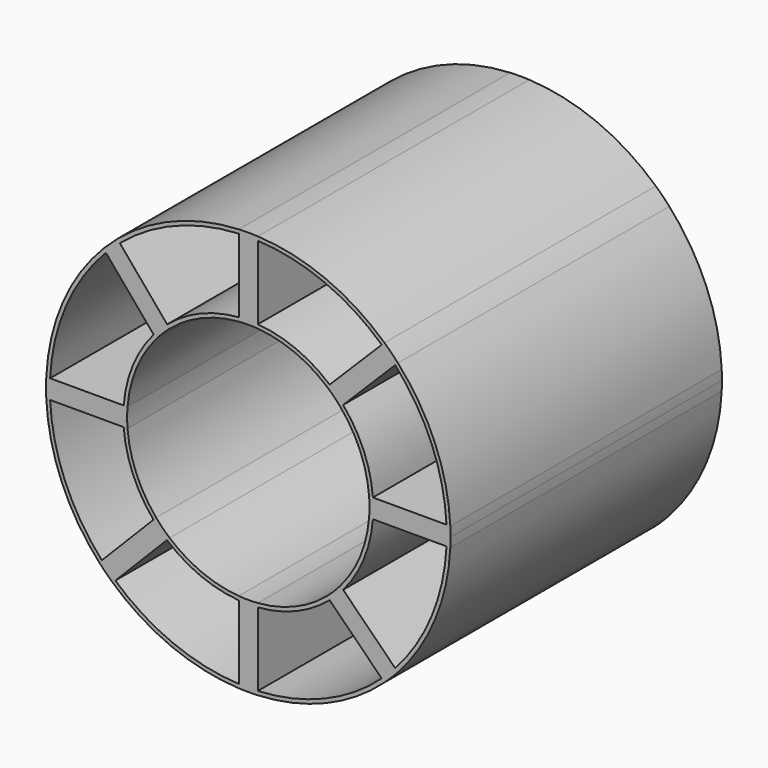
from build123d import *

# Parameters (mm, degrees)
F1_DEPTH = 44.45


with BuildPart() as f1:
    # F0 (on Front) → F1 (new body)
    with BuildSketch(Plane.XZ):
        with BuildLine():
            Line((-1.2490308724, 15.8257874016), (-1.2490308724, 16.3272945364))
            ThreePointArc((-1.2490308724, 16.3272945364), (-6.2468599625, 15.1366233226), (-10.6297427896, 12.455889901))
            Line((-10.6297427896, 12.455889901), (-10.3074871892, 12.0735799515))
            ThreePointArc((-10.3074871892, 12.0735799515), (-6.0751989773, 14.6665463687), (-1.2490308724, 15.8257874016))
        make_face()
        with BuildLine():
            Line((1.2490308724, 15.8257874016), (1.2490308724, 16.3272945364))
            ThreePointArc((1.2490308724, 16.3272945364), (0, 16.375), (-1.2490308724, 16.3272945364))
            Line((-1.2490308724, 16.3272945364), (-1.2490308724, 15.8257874016))
            ThreePointArc((-1.2490308724, 15.8257874016), (0, 15.875), (1.2490308724, 15.8257874016))
        make_face()
        with BuildLine():
            Line((-10.3074871892, 12.0735799515), (-10.6297427896, 12.455889901))
            ThreePointArc((-10.6297427896, 12.455889901), (-11.5487712868, 11.6088977411), (-12.4005243169, 10.6942798573))
            Line((-12.4005243169, 10.6942798573), (-12.0738596244, 10.3071595879))
            ThreePointArc((-12.0738596244, 10.3071595879), (-11.2254724409, 11.2251678597), (-10.3074871892, 12.0735799515))
        make_face()
        with BuildLine():
            Line((-12.0738596244, 10.3071595879), (-12.4005243169, 10.6942798573))
            ThreePointArc((-12.4005243169, 10.6942798573), (-15.120353042, 6.2861394262), (-16.3272945364, 1.2490308724))
            Line((-16.3272945364, 1.2490308724), (-15.8257874016, 1.2490308724))
            ThreePointArc((-15.8257874016, 1.2490308724), (-14.6666287878, 6.075), (-12.0738596244, 10.3071595879))
        make_face()
        with BuildLine():
            Line((-15.8257874016, 1.2490308724), (-16.3272945364, 1.2490308724))
            ThreePointArc((-16.3272945364, 1.2490308724), (-16.375, 0), (-16.3272945364, -1.2490308724))
            Line((-16.3272945364, -1.2490308724), (-15.8257874016, -1.2490308724))
            ThreePointArc((-15.8257874016, -1.2490308724), (-15.875, 0), (-15.8257874016, 1.2490308724))
        make_face()
        with BuildLine():
            ThreePointArc((-16.3272945364, -1.2490308724), (-15.1277540364, -6.2683078112), (-12.42570743, -10.6650091357))
            Line((-12.42570743, -10.6650091357), (-12.0738596244, -10.3071595879))
            ThreePointArc((-12.0738596244, -10.3071595879), (-14.6666287878, -6.075), (-15.8257874016, -1.2490308724))
            Line((-15.8257874016, -1.2490308724), (-16.3272945364, -1.2490308724))
        make_face()
        with BuildLine():
            Line((10.3071595879, 12.0738596244), (10.6619551336, 12.4283280343))
            ThreePointArc((10.6619551336, 12.4283280343), (6.2664489031, 15.1285241562), (1.2490308724, 16.3272945364))
            Line((1.2490308724, 16.3272945364), (1.2490308724, 15.8257874016))
            ThreePointArc((1.2490308724, 15.8257874016), (6.075, 14.6666287878), (10.3071595879, 12.0738596244))
        make_face()
        with BuildLine():
            Line((12.0735799515, 10.3074871892), (12.4283478304, 10.6619320579))
            ThreePointArc((12.4283478304, 10.6619320579), (11.5788842912, 11.5788627927), (10.6619551336, 12.4283280343))
            Line((10.6619551336, 12.4283280343), (10.3071595879, 12.0738596244))
            ThreePointArc((10.3071595879, 12.0738596244), (11.2251678597, 11.2254724409), (12.0735799515, 10.3074871892))
        make_face()
        with BuildLine():
            Line((15.8257874016, 1.2490308724), (16.3272945364, 1.2490308724))
            ThreePointArc((16.3272945364, 1.2490308724), (15.1285299737, 6.2664348585), (12.4283478304, 10.6619320579))
            Line((12.4283478304, 10.6619320579), (12.0735799515, 10.3074871892))
            ThreePointArc((12.0735799515, 10.3074871892), (14.6665463687, 6.0751989773), (15.8257874016, 1.2490308724))
        make_face()
        with BuildLine():
            ThreePointArc((16.375, 0), (16.3630692878, 0.6249707856), (16.3272945364, 1.2490308724))
            Line((16.3272945364, 1.2490308724), (15.8257874016, 1.2490308724))
            ThreePointArc((15.8257874016, 1.2490308724), (15.8626920792, 0.625), (15.875, 0))
            ThreePointArc((15.875, 0), (15.8626920792, -0.625), (15.8257874016, -1.2490308724))
            Line((15.8257874016, -1.2490308724), (16.3272945364, -1.2490308724))
            ThreePointArc((16.3272945364, -1.2490308724), (16.3630692878, -0.6249707856), (16.375, 0))
        make_face()
        with BuildLine():
            ThreePointArc((12.4280217247, -10.6623121793), (15.1284341411, -6.2666662141), (16.3272945364, -1.2490308724))
            Line((16.3272945364, -1.2490308724), (15.8257874016, -1.2490308724))
            ThreePointArc((15.8257874016, -1.2490308724), (14.6665463687, -6.0751989773), (12.0735799515, -10.3074871892))
            Line((12.0735799515, -10.3074871892), (12.4280217247, -10.6623121793))
        make_face()
        with BuildLine():
            ThreePointArc((10.6615750043, -12.4286541278), (11.5785301419, -11.5792169318), (12.4280217247, -10.6623121793))
            Line((12.4280217247, -10.6623121793), (12.0735799515, -10.3074871892))
            ThreePointArc((12.0735799515, -10.3074871892), (11.2251678597, -11.2254724409), (10.3071595879, -12.0738596244))
            Line((10.3071595879, -12.0738596244), (10.6615750043, -12.4286541278))
        make_face()
        with BuildLine():
            ThreePointArc((1.2490308724, -16.3272945364), (6.266217547, -15.1286199851), (10.6615750043, -12.4286541278))
            Line((10.6615750043, -12.4286541278), (10.3071595879, -12.0738596244))
            ThreePointArc((10.3071595879, -12.0738596244), (6.075, -14.6666287878), (1.2490308724, -15.8257874016))
            Line((1.2490308724, -15.8257874016), (1.2490308724, -16.3272945364))
        make_face()
        with BuildLine():
            ThreePointArc((-1.2490308724, -16.3272945364), (0, -16.375), (1.2490308724, -16.3272945364))
            Line((1.2490308724, -16.3272945364), (1.2490308724, -15.8257874016))
            ThreePointArc((1.2490308724, -15.8257874016), (0, -15.875), (-1.2490308724, -15.8257874016))
            Line((-1.2490308724, -15.8257874016), (-1.2490308724, -16.3272945364))
        make_face()
        with BuildLine():
            ThreePointArc((-10.6588794621, -12.4309659163), (-6.2645771056, -15.1292993456), (-1.2490308724, -16.3272945364))
            Line((-1.2490308724, -16.3272945364), (-1.2490308724, -15.8257874016))
            ThreePointArc((-1.2490308724, -15.8257874016), (-6.0751989773, -14.6665463687), (-10.3074871892, -12.0735799515))
            Line((-10.3074871892, -12.0735799515), (-10.6588794621, -12.4309659163))
        make_face()
        with BuildLine():
            ThreePointArc((-12.42570743, -10.6650091357), (-11.5760178314, -11.5817285483), (-10.6588794621, -12.4309659163))
            Line((-10.6588794621, -12.4309659163), (-10.3074871892, -12.0735799515))
            ThreePointArc((-10.3074871892, -12.0735799515), (-11.2254724409, -11.2251678597), (-12.0738596244, -10.3071595879))
            Line((-12.0738596244, -10.3071595879), (-12.42570743, -10.6650091357))
        make_face()
        with BuildLine():
            Line((-16.3272945364, 1.2490308724), (-25.9699811683, 1.2490308724))
            ThreePointArc((-25.9699811683, 1.2490308724), (-26, 0), (-25.9699811683, -1.2490308724))
            Line((-25.9699811683, -1.2490308724), (-16.3272945364, -1.2490308724))
            ThreePointArc((-16.3272945364, -1.2490308724), (-16.375, 0), (-16.3272945364, 1.2490308724))
        make_face()
        with BuildLine():
            Line((-10.6297427896, 12.455889901), (-16.8331168629, 19.8153015793))
            ThreePointArc((-16.8331168629, 19.8153015793), (-17.7655269326, 18.9838366198), (-18.6569206444, 18.1085425164))
            Line((-18.6569206444, 18.1085425164), (-12.4005243169, 10.6942798573))
            ThreePointArc((-12.4005243169, 10.6942798573), (-11.5487712868, 11.6088977411), (-10.6297427896, 12.455889901))
        make_face()
        with BuildLine():
            Line((1.2490308724, 16.3272945364), (1.2490308724, 25.9699811683))
            ThreePointArc((1.2490308724, 25.9699811683), (0, 26), (-1.2490308724, 25.9699811683))
            Line((-1.2490308724, 25.9699811683), (-1.2490308724, 16.3272945364))
            ThreePointArc((-1.2490308724, 16.3272945364), (0, 16.375), (1.2490308724, 16.3272945364))
        make_face()
        with BuildLine():
            Line((12.4283478304, 10.6619320579), (19.2497129633, 17.4770864514))
            ThreePointArc((19.2497129633, 17.4770864514), (18.3879155416, 18.381636544), (17.4836598335, 19.2437428487))
            Line((17.4836598335, 19.2437428487), (10.6619551336, 12.4283280343))
            ThreePointArc((10.6619551336, 12.4283280343), (11.5788842912, 11.5788627927), (12.4283478304, 10.6619320579))
        make_face()
        with BuildLine():
            ThreePointArc((26, 0), (25.9924942087, 0.624695776), (25.9699811683, 1.2490308724))
            Line((25.9699811683, 1.2490308724), (16.3272945364, 1.2490308724))
            ThreePointArc((16.3272945364, 1.2490308724), (16.3630692878, 0.6249707856), (16.375, 0))
            ThreePointArc((16.375, 0), (16.3630692878, -0.6249707856), (16.3272945364, -1.2490308724))
            Line((16.3272945364, -1.2490308724), (25.9699811683, -1.2490308724))
            ThreePointArc((25.9699811683, -1.2490308724), (25.9924942087, -0.624695776), (26, 0))
        make_face()
        with BuildLine():
            ThreePointArc((17.4761736065, -19.2505417087), (18.3807645643, -18.3887871822), (19.2429137476, -17.4845723568))
            Line((19.2429137476, -17.4845723568), (12.4280217247, -10.6623121793))
            ThreePointArc((12.4280217247, -10.6623121793), (11.5785301419, -11.5792169318), (10.6615750043, -12.4286541278))
            Line((10.6615750043, -12.4286541278), (17.4761736065, -19.2505417087))
        make_face()
        with BuildLine():
            ThreePointArc((-1.2490308724, -25.9699811683), (0, -26), (1.2490308724, -25.9699811683))
            Line((1.2490308724, -25.9699811683), (1.2490308724, -16.3272945364))
            ThreePointArc((1.2490308724, -16.3272945364), (0, -16.375), (-1.2490308724, -16.3272945364))
            Line((-1.2490308724, -16.3272945364), (-1.2490308724, -25.9699811683))
        make_face()
        with BuildLine():
            ThreePointArc((-19.189026681, -17.5436955923), (-18.3241000354, -18.4452529907), (-17.4168625049, -19.3042197585))
            Line((-17.4168625049, -19.3042197585), (-10.6588794621, -12.4309659163))
            ThreePointArc((-10.6588794621, -12.4309659163), (-11.5760178314, -11.5817285483), (-12.42570743, -10.6650091357))
            Line((-12.42570743, -10.6650091357), (-19.189026681, -17.5436955923))
        make_face()
        with BuildLine():
            ThreePointArc((-26.4705481976, -1.2490308724), (-24.4655644109, -10.1826400337), (-19.540065228, -17.9007220772))
            Line((-19.540065228, -17.9007220772), (-19.189026681, -17.5436955923))
            ThreePointArc((-19.189026681, -17.5436955923), (-24.0044375495, -9.9893432183), (-25.9699811683, -1.2490308724))
            Line((-25.9699811683, -1.2490308724), (-26.4705481976, -1.2490308724))
        make_face()
        with BuildLine():
            Line((-25.9699811683, 1.2490308724), (-26.4705481976, 1.2490308724))
            ThreePointArc((-26.4705481976, 1.2490308724), (-26.5, 0), (-26.4705481976, -1.2490308724))
            Line((-26.4705481976, -1.2490308724), (-25.9699811683, -1.2490308724))
            ThreePointArc((-25.9699811683, -1.2490308724), (-26, 0), (-25.9699811683, 1.2490308724))
        make_face()
        with BuildLine():
            Line((-18.6569206444, 18.1085425164), (-18.9809440271, 18.4925326508))
            ThreePointArc((-18.9809440271, 18.4925326508), (-24.3062569055, 10.5572664664), (-26.4705481976, 1.2490308724))
            Line((-26.4705481976, 1.2490308724), (-25.9699811683, 1.2490308724))
            ThreePointArc((-25.9699811683, 1.2490308724), (-23.8526911389, 10.3464547276), (-18.6569206444, 18.1085425164))
        make_face()
        with BuildLine():
            Line((-16.8331168629, 19.8153015793), (-17.1553686227, 20.1976069726))
            ThreePointArc((-17.1553686227, 20.1976069726), (-18.0882584179, 19.3665925606), (-18.9809440271, 18.4925326508))
            Line((-18.9809440271, 18.4925326508), (-18.6569206444, 18.1085425164))
            ThreePointArc((-18.6569206444, 18.1085425164), (-17.7655269326, 18.9838366198), (-16.8331168629, 19.8153015793))
        make_face()
        with BuildLine():
            Line((-1.2490308724, 25.9699811683), (-1.2490308724, 26.4705481976))
            ThreePointArc((-1.2490308724, 26.4705481976), (-9.7220331257, 24.6522224536), (-17.1553686227, 20.1976069726))
            Line((-17.1553686227, 20.1976069726), (-16.8331168629, 19.8153015793))
            ThreePointArc((-16.8331168629, 19.8153015793), (-9.5504469472, 24.1824102006), (-1.2490308724, 25.9699811683))
        make_face()
        with BuildLine():
            Line((1.2490308724, 25.9699811683), (1.2490308724, 26.4705481976))
            ThreePointArc((1.2490308724, 26.4705481976), (0, 26.5), (-1.2490308724, 26.4705481976))
            Line((-1.2490308724, 26.4705481976), (-1.2490308724, 25.9699811683))
            ThreePointArc((-1.2490308724, 25.9699811683), (0, 26), (1.2490308724, 25.9699811683))
        make_face()
        with BuildLine():
            Line((17.4836598335, 19.2437428487), (17.8377822412, 19.5975387413))
            ThreePointArc((17.8377822412, 19.5975387413), (10.1432821835, 24.4819081476), (1.2490308724, 26.4705481976))
            Line((1.2490308724, 26.4705481976), (1.2490308724, 25.9699811683))
            ThreePointArc((1.2490308724, 25.9699811683), (9.9518337885, 24.020012578), (17.4836598335, 19.2437428487))
        make_face()
        with BuildLine():
            Line((19.2497129633, 17.4770864514), (19.6038237141, 17.8308747903))
            ThreePointArc((19.6038237141, 17.8308747903), (18.7416311858, 18.7350276353), (17.8377822412, 19.5975387413))
            Line((17.8377822412, 19.5975387413), (17.4836598335, 19.2437428487))
            ThreePointArc((17.4836598335, 19.2437428487), (18.3879155416, 18.381636544), (19.2497129633, 17.4770864514))
        make_face()
        with BuildLine():
            Line((25.9699811683, 1.2490308724), (26.4705481976, 1.2490308724))
            ThreePointArc((26.4705481976, 1.2490308724), (24.483695058, 10.1389682072), (19.6038237141, 17.8308747903))
            Line((19.6038237141, 17.8308747903), (19.2497129633, 17.4770864514))
            ThreePointArc((19.2497129633, 17.4770864514), (24.0217116648, 9.9477318366), (25.9699811683, 1.2490308724))
        make_face()
        with BuildLine():
            ThreePointArc((26.4705481976, -1.2490308724), (26.4926360262, -0.6246890284), (26.5, 0))
            ThreePointArc((26.5, 0), (26.4926360262, 0.6246890284), (26.4705481976, 1.2490308724))
            Line((26.4705481976, 1.2490308724), (25.9699811683, 1.2490308724))
            ThreePointArc((25.9699811683, 1.2490308724), (25.9924942087, 0.624695776), (26, 0))
            ThreePointArc((26, 0), (25.9924942087, -0.624695776), (25.9699811683, -1.2490308724))
            Line((25.9699811683, -1.2490308724), (26.4705481976, -1.2490308724))
        make_face()
        with BuildLine():
            ThreePointArc((19.5966821713, -17.8387232693), (24.4816646068, -10.1438699755), (26.4705481976, -1.2490308724))
            Line((26.4705481976, -1.2490308724), (25.9699811683, -1.2490308724))
            ThreePointArc((25.9699811683, -1.2490308724), (24.019776612, -9.9524033031), (19.2429137476, -17.4845723568))
            Line((19.2429137476, -17.4845723568), (19.5966821713, -17.8387232693))
        make_face()
        with BuildLine():
            ThreePointArc((17.8299334192, -19.6046799073), (18.7341276645, -18.7425307963), (19.5966821713, -17.8387232693))
            Line((19.5966821713, -17.8387232693), (19.2429137476, -17.4845723568))
            ThreePointArc((19.2429137476, -17.4845723568), (18.3807645643, -18.3887871822), (17.4761736065, -19.2505417087))
            Line((17.4761736065, -19.2505417087), (17.8299334192, -19.6046799073))
        make_face()
        with BuildLine():
            ThreePointArc((1.2490308724, -26.4705481976), (10.1383803665, -24.4839384811), (17.8299334192, -19.6046799073))
            Line((17.8299334192, -19.6046799073), (17.4761736065, -19.2505417087))
            ThreePointArc((17.4761736065, -19.2505417087), (9.9471622766, -24.0219475198), (1.2490308724, -25.9699811683))
            Line((1.2490308724, -25.9699811683), (1.2490308724, -26.4705481976))
        make_face()
        with BuildLine():
            ThreePointArc((-1.2490308724, -26.4705481976), (0, -26.5), (1.2490308724, -26.4705481976))
            Line((1.2490308724, -26.4705481976), (1.2490308724, -25.9699811683))
            ThreePointArc((1.2490308724, -25.9699811683), (0, -26), (-1.2490308724, -25.9699811683))
            Line((-1.2490308724, -25.9699811683), (-1.2490308724, -26.4705481976))
        make_face()
        with BuildLine():
            ThreePointArc((-17.7677302473, -19.6610722459), (-10.0995812564, -24.4999685397), (-1.2490308724, -26.4705481976))
            Line((-1.2490308724, -26.4705481976), (-1.2490308724, -25.9699811683))
            ThreePointArc((-1.2490308724, -25.9699811683), (-9.9101961477, -24.0372213934), (-17.4168625049, -19.3042197585))
            Line((-17.4168625049, -19.3042197585), (-17.7677302473, -19.6610722459))
        make_face()
        with BuildLine():
            ThreePointArc((-19.540065228, -17.9007220772), (-18.6746515091, -18.8017922288), (-17.7677302473, -19.6610722459))
            Line((-17.7677302473, -19.6610722459), (-17.4168625049, -19.3042197585))
            ThreePointArc((-17.4168625049, -19.3042197585), (-18.3241000354, -18.4452529907), (-19.189026681, -17.5436955923))
            Line((-19.189026681, -17.5436955923), (-19.540065228, -17.9007220772))
        make_face()
    extrude(amount=F1_DEPTH)


solid = f1.part
